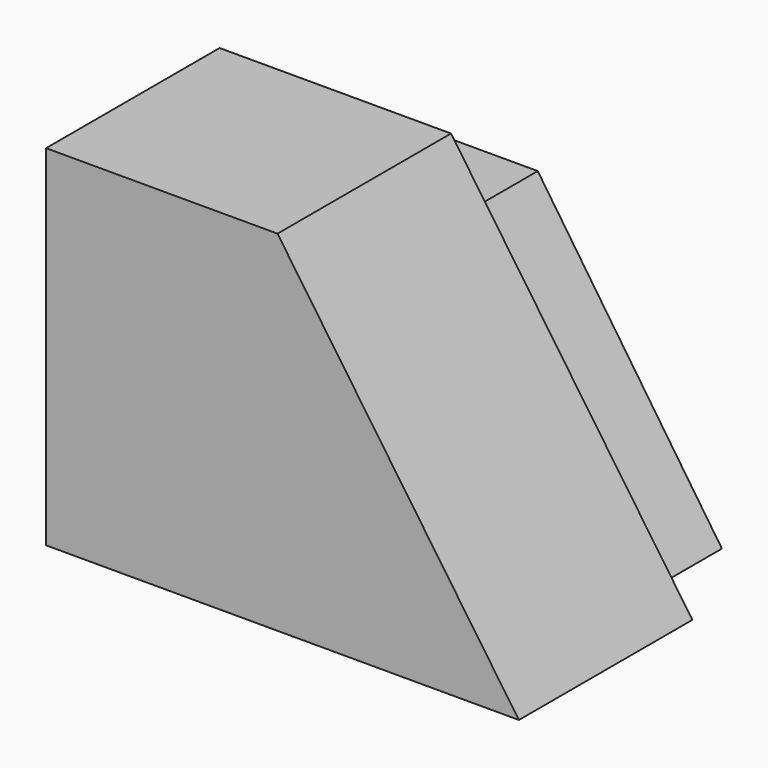
from build123d import *

# Parameters (mm, degrees)
F1_DEPTH = 12.7
F3_DEPTH = 25.4


with BuildPart() as f1:
    # F0 (on Front) → F1 (new body)
    with BuildSketch(Plane.XZ):
        Polygon((0, 31.916559), (0, 0), (48.676394, 0), (27.107213, 31.916559), align=None)
    extrude(amount=-F1_DEPTH)

    # F2 (on Front) → F3 (join)
    with BuildSketch(Plane.XZ):
        Polygon((0, 40.952295), (0, 0), (55.380326, 0), (27.107216, 40.952295), align=None)
    extrude(amount=F3_DEPTH)


solid = f1.part
